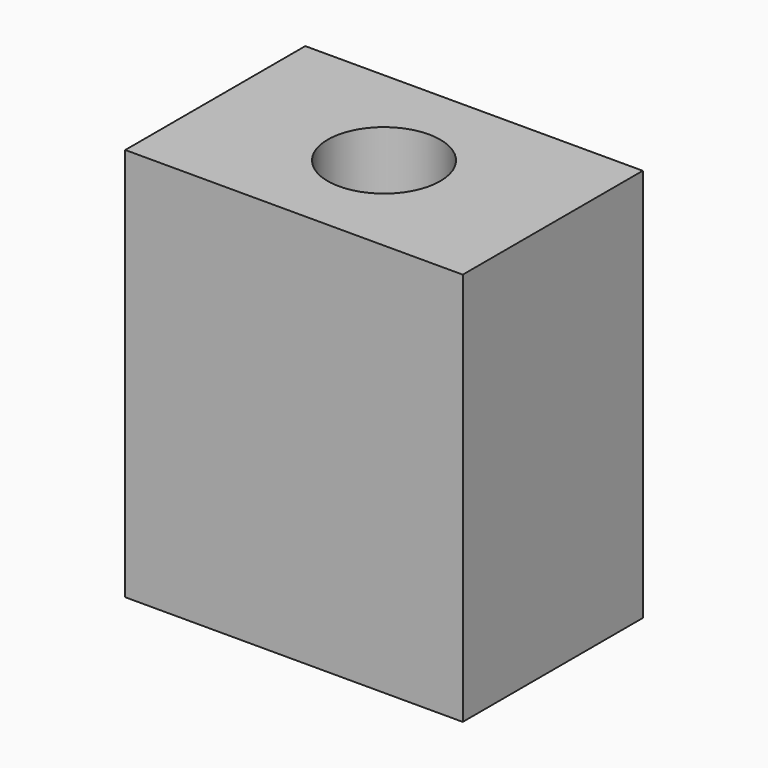
from build123d import *

# Parameters (mm, degrees)
F1_W     = 152.4
F1_H     = 101.6
F1_R     = 25.4
F2_DEPTH = 177.8


with BuildPart() as f2:
    # F1 (on face) → F2 (new body)
    with BuildSketch(Plane.XY):
        Rectangle(F1_W, F1_H)
        Circle(F1_R, mode=Mode.SUBTRACT)
    extrude(amount=F2_DEPTH)


solid = f2.part
